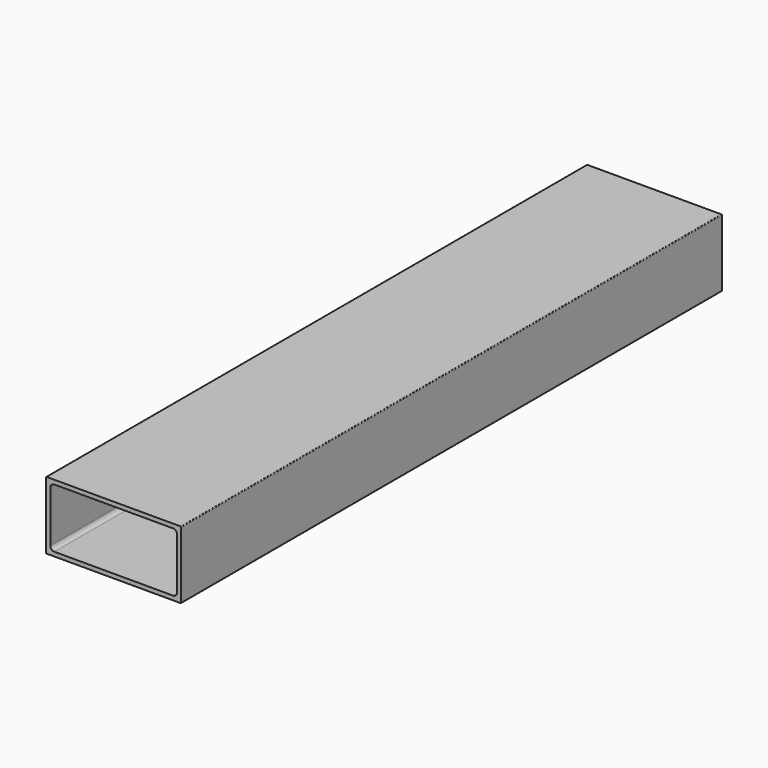
from build123d import *

# Parameters (mm, degrees)
F0_W     = 50.8
F0_H     = 25.4
F1_DEPTH = 254
F2_W     = 47.6504
F2_H     = 22.2504
F3_DEPTH = 254
F4_R     = 1.524
F5_R     = 0.254


with BuildPart() as f1:
    # F0 (on Front) → F1 (new body)
    with BuildSketch(Plane.XZ):
        Rectangle(F0_W, F0_H)
    extrude(amount=F1_DEPTH)

    # F2 (on face) → F3 (cut, through all)
    with BuildSketch(Plane.XZ.offset(254)):
        Rectangle(F2_W, F2_H)
    extrude(amount=-F3_DEPTH, mode=Mode.SUBTRACT)

    # F4
    f4_edges = [f1.edges().sort_by_distance(p)[0] for p in [
        (23.8252, -127, -11.1252),
        (23.8252, -127, 11.1252),
        (-23.8252, -127, -11.1252),
        (-23.8252, -127, 11.1252),
    ]]
    fillet(f4_edges, radius=F4_R)

    # F5
    f5_edges = [f1.edges().sort_by_distance(p)[0] for p in [
        (-25.4, -127, 12.7),
        (25.4, -127, 12.7),
        (25.4, -127, -12.7),
        (-25.4, -127, -12.7),
    ]]
    fillet(f5_edges, radius=F5_R)


solid = f1.part
